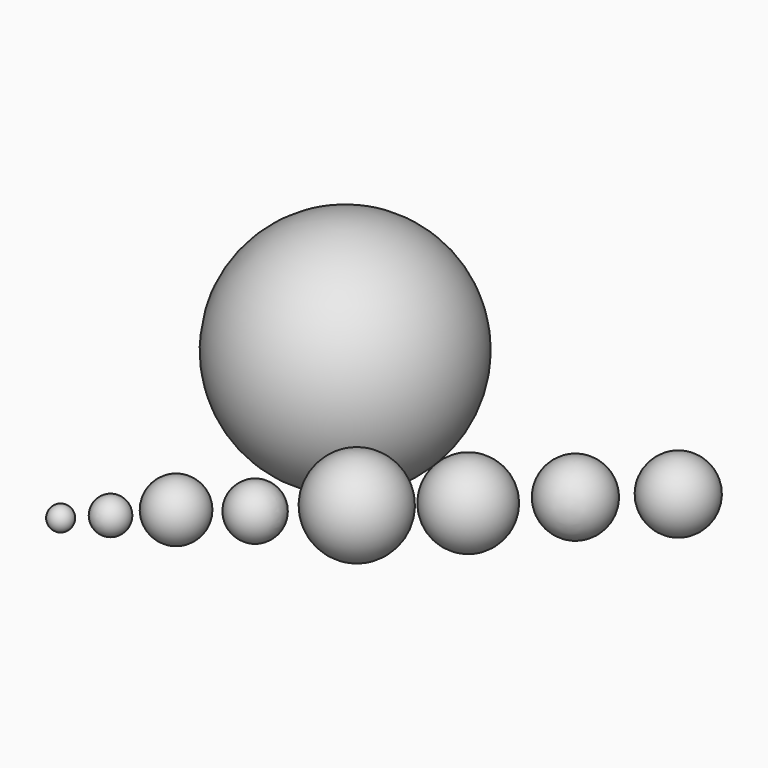
from build123d import *

# Parameters (mm, degrees)
SPHERE_PLACEMENT_ANGLE    = 81
SPHERE001_PLACEMENT_ANGLE = 94.8214
SPHERE002_PLACEMENT_ANGLE = 126.25
SPHERE004_PLACEMENT_ANGLE = 1.02273
SPHERE005_PLACEMENT_ANGLE = 169.62
SPHERE006_PLACEMENT_ANGLE = 147.75
SPHERE007_PLACEMENT_ANGLE = 60.8824
SPHERE008_PLACEMENT_ANGLE = 210.789
SPHERE009_PLACEMENT_ANGLE = 208.125


with BuildPart() as obj1:
    # Sphere → Sphere (revolve)
    with BuildSketch(Plane.XZ):
        with BuildLine():
            ThreePointArc((0, -2), (2, 0), (0, 2))
            Line((0, 2), (0, -2))
        make_face()
    revolve(axis=Axis((0, 0, 0), (0, 0, 1)))


with BuildPart() as obj1_1:
    # Sphere placement: moved
    add(obj1.part.moved(Location((0.696497, -63.405968, 0))).rotate(Axis((0.696497, -63.405968, 0), (0, 0, 1)), SPHERE_PLACEMENT_ANGLE))


with BuildPart() as venus:
    # Sphere001 → Sphere001 (revolve)
    with BuildSketch(Plane.XZ):
        with BuildLine():
            ThreePointArc((0, -3), (3, 0), (0, 3))
            Line((0, 3), (0, -3))
        make_face()
    revolve(axis=Axis((0, 0, 0), (0, 0, 1)))


with BuildPart() as venus_1:
    # Sphere001 placement: moved
    add(venus.part.moved(Location((5.574488, -58.532612, 0))).rotate(Axis((5.574488, -58.532612, 0), (0, 0, -1)), SPHERE001_PLACEMENT_ANGLE))


with BuildPart() as terre:
    # Sphere002 → Sphere002 (revolve)
    with BuildSketch(Plane.XZ):
        with BuildLine():
            ThreePointArc((0, -5), (5, 0), (0, 5))
            Line((0, 5), (0, -5))
        make_face()
    revolve(axis=Axis((0, 0, 0), (0, 0, 1)))


with BuildPart() as terre_1:
    # Sphere002 placement: moved
    add(terre.part.moved(Location((11.562709, -51.615873, 0))).rotate(Axis((11.562709, -51.615873, 0), (0, 0, 1)), SPHERE002_PLACEMENT_ANGLE))


with BuildPart() as mars:
    # Sphere004 → Sphere004 (revolve)
    with BuildSketch(Plane.XZ):
        with BuildLine():
            ThreePointArc((0, -4.5), (4.5, 0), (0, 4.5))
            Line((0, 4.5), (0, -4.5))
        make_face()
    revolve(axis=Axis((0, 0, 0), (0, 0, 1)))


with BuildPart() as mars_1:
    # Sphere004 placement: moved
    add(mars.part.moved(Location((20.280315, -45.148132, 0))).rotate(Axis((20.280315, -45.148132, 0), (0, 0, 1)), SPHERE004_PLACEMENT_ANGLE))


with BuildPart() as jupiter:
    # Sphere005 → Sphere005 (revolve)
    with BuildSketch(Plane.XZ):
        with BuildLine():
            ThreePointArc((0, -8), (8, 0), (0, 8))
            Line((0, 8), (0, -8))
        make_face()
    revolve(axis=Axis((0, 0, 0), (0, 0, 1)))


with BuildPart() as jupiter_1:
    # Sphere005 placement: moved
    add(jupiter.part.moved(Location((30.09062, -35.068856, 0))).rotate(Axis((30.09062, -35.068856, 0), (0, 0, 1)), SPHERE005_PLACEMENT_ANGLE))


with BuildPart() as obj2:
    # Sphere006 → Sphere006 (revolve)
    with BuildSketch(Plane.XZ):
        with BuildLine():
            ThreePointArc((0, -7), (7, 0), (0, 7))
            Line((0, 7), (0, -7))
        make_face()
    revolve(axis=Axis((0, 0, 0), (0, 0, 1)))


with BuildPart() as obj2_1:
    # Sphere006 placement: moved
    add(obj2.part.moved(Location((41.635599, -25.00973, 0))).rotate(Axis((41.635599, -25.00973, 0), (0, 0, 1)), SPHERE006_PLACEMENT_ANGLE))


with BuildPart() as uranus:
    # Sphere007 → Sphere007 (revolve)
    with BuildSketch(Plane.XZ):
        with BuildLine():
            ThreePointArc((0, -6), (6, 0), (0, 6))
            Line((0, 6), (0, -6))
        make_face()
    revolve(axis=Axis((0, 0, 0), (0, 0, 1)))


with BuildPart() as uranus_1:
    # Sphere007 placement: moved
    add(uranus.part.moved(Location((52.019263, -14.427911, 0))).rotate(Axis((52.019263, -14.427911, 0), (0, 0, -1)), SPHERE007_PLACEMENT_ANGLE))


with BuildPart() as neptune:
    # Sphere008 → Sphere008 (revolve)
    with BuildSketch(Plane.XZ):
        with BuildLine():
            ThreePointArc((0, -6), (6, 0), (0, 6))
            Line((0, 6), (0, -6))
        make_face()
    revolve(axis=Axis((0, 0, 0), (0, 0, 1)))


with BuildPart() as neptune_1:
    # Sphere008 placement: moved
    add(neptune.part.moved(Location((62.460037, -4.871766, 0))).rotate(Axis((62.460037, -4.871766, 0), (0, 0, 1)), SPHERE008_PLACEMENT_ANGLE))


with BuildPart() as soleil:
    # Sphere009 → Sphere009 (revolve)
    with BuildSketch(Plane.XZ):
        with BuildLine():
            ThreePointArc((0, -20), (20, 0), (0, 20))
            Line((0, 20), (0, -20))
        make_face()
    revolve(axis=Axis((0, 0, 0), (0, 0, 1)))


with BuildPart() as soleil_1:
    # Sphere009 placement: moved
    add(soleil.part.rotate(Axis((0, 0, 0), (0, 0, 1)), SPHERE009_PLACEMENT_ANGLE))


solid = Compound([obj1_1.part, venus_1.part, terre_1.part, mars_1.part, jupiter_1.part, obj2_1.part, uranus_1.part, neptune_1.part, soleil_1.part])
